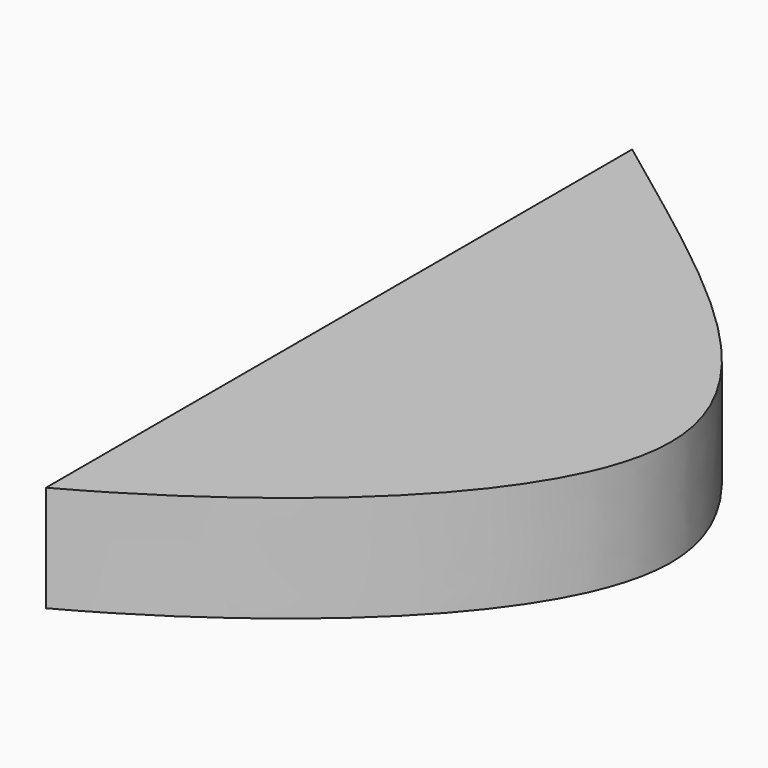
from build123d import *

# Parameters (mm, degrees)
F1_DEPTH = 19.05


with BuildPart() as f1:
    # F0 (on Top) → F1 (new body)
    with BuildSketch(Plane.XY):
        with BuildLine():
            add(Edge.make_bspline(
                [(0, 65.7225), (29.562726, 43.48522), (89.535204, 2.966865), (30.212052, -49.418949), (0, -65.7225)],
                knots=[0, 0, 0, 0, 88.79688, 177.59376, 177.59376, 177.59376, 177.59376], degree=3))
            Line((0, 65.7225), (0, 0))
            Line((0, 0), (0, -65.7225))
        make_face()
    extrude(amount=F1_DEPTH)


solid = f1.part
